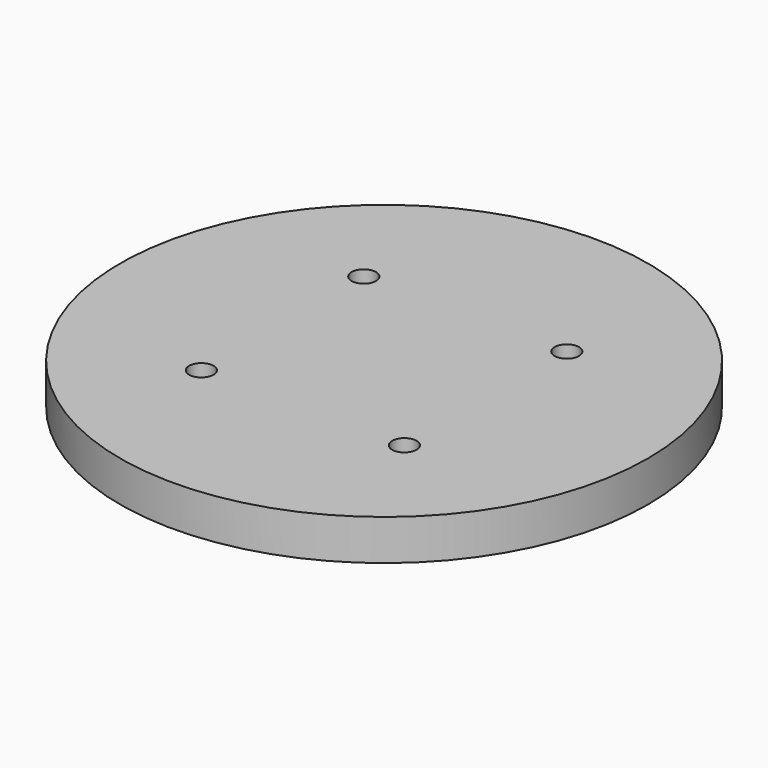
from build123d import *

# Parameters (mm, degrees)
F0_R     = 32.5
F1_DEPTH = 5
F4_R     = 0.75
F4_R_2   = 1
F5_DEPTH = 5
F3_R     = 1.5
F6_DEPTH = 2


with BuildPart() as f1:
    # F0 (on Top) → F1 (new body)
    with BuildSketch(Plane.XY):
        Circle(F0_R)
    extrude(amount=F1_DEPTH)

    # F4 (on face) → F5 (cut)
    with BuildSketch(Plane.XY.offset(5)):
        with Locations((12.5, -12.5)):
            Circle(F4_R)
        with Locations((-12.5, 12.5)):
            Circle(F4_R_2)
        with Locations((-12.5, -12.5)):
            Circle(F4_R_2)
        with Locations((12.5, 12.5)):
            Circle(F4_R_2)
    extrude(amount=-F5_DEPTH, mode=Mode.SUBTRACT)

    # F3 (on face) → F6 (cut)
    with BuildSketch(Plane.XY.offset(5)):
        with Locations((12.5, 12.5)):
            Circle(F3_R)
        with Locations((12.5, -12.5)):
            Circle(F3_R)
        with Locations((-12.5, -12.5)):
            Circle(F3_R)
        with Locations((-12.5, 12.5)):
            Circle(F3_R)
    extrude(amount=-F6_DEPTH, mode=Mode.SUBTRACT)


solid = f1.part
